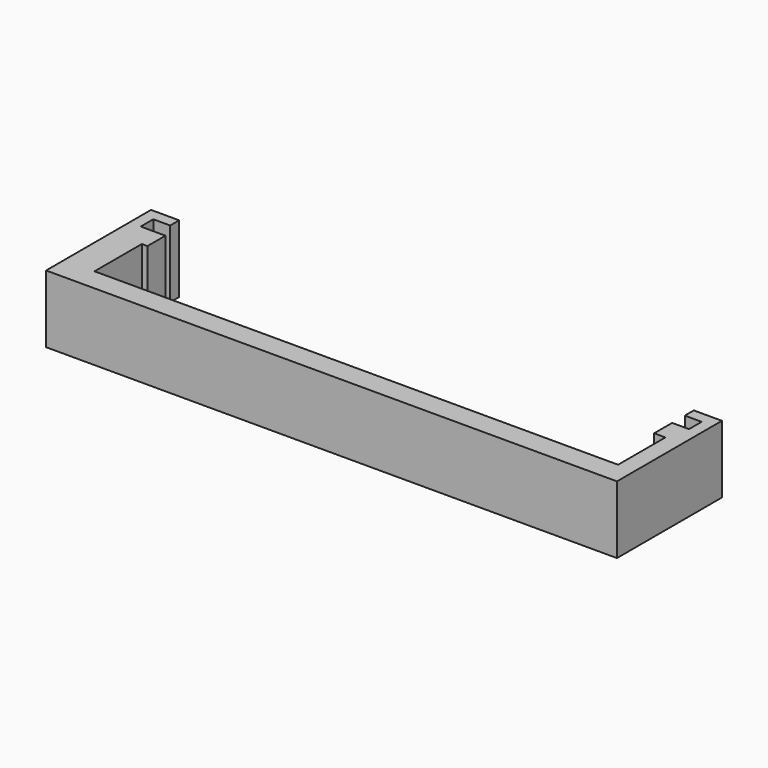
from build123d import *

# Parameters (mm, degrees)
F1_DEPTH = 6


with BuildPart() as f1:
    # F0 (on Top) → F1 (new body)
    with BuildSketch(Plane.XY):
        Polygon((-25.35, 11.65), (-25.35, 0), (25.35, 0), (25.35, 11.65), (22.85, 11.65), (22.85, 10.65), (24.35, 10.65), (24.35, 9.25), (22.85, 9.25), (22.85, 7.25), (23.85, 7.25), (23.85, 2), (-22.65, 2), (-22.65, 7.25), (-22.15, 7.25), (-22.15, 9.25), (-24.35, 9.25), (-24.35, 10.65), (-22.85, 10.65), (-22.85, 11.65), align=None)
    extrude(amount=F1_DEPTH)


solid = f1.part
